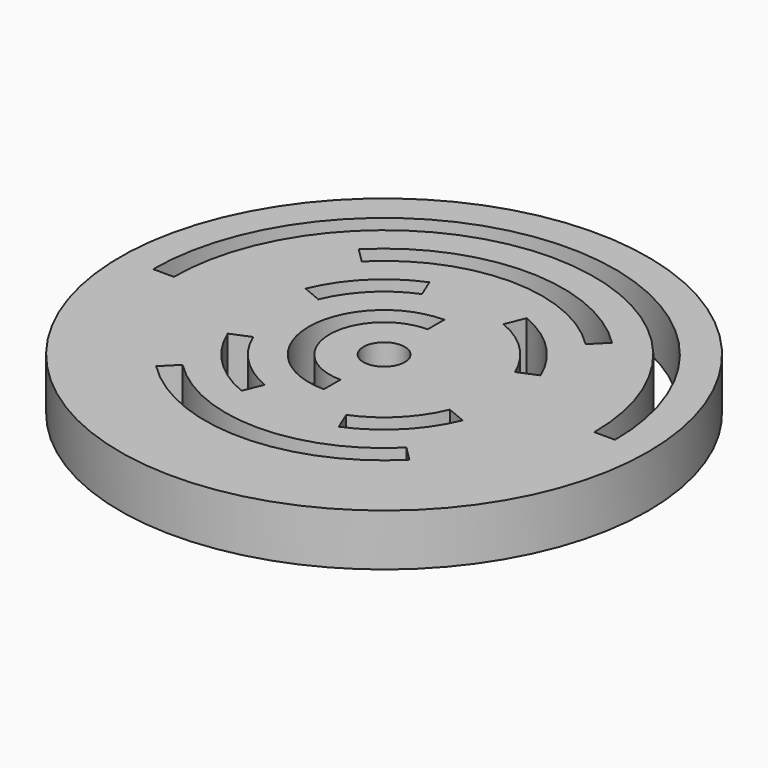
from build123d import *

# Parameters (mm, degrees)
SKETCH_R   = 25.426446
SKETCH_R_2 = 1.991345
PAD_DEPTH  = 5


with BuildPart() as part:
    # Sketch → Pad (new body)
    with BuildSketch(Plane.XY):
        Circle(SKETCH_R)
        Circle(SKETCH_R_2, mode=Mode.SUBTRACT)
        with BuildLine():
            Line((-22.250395, 0), (-20.250395, 0))
            ThreePointArc((20.250395, 0), (0, 20.250395), (-20.250395, 0))
            Line((20.250395, 0), (22.250395, 0))
            ThreePointArc((22.250395, 0), (0, 22.250395), (-22.250395, 0))
        make_face(mode=Mode.SUBTRACT)
        with BuildLine():
            ThreePointArc((12.197871, 12.197871), (0, 17.250395), (-12.197871, 12.197871))
            Line((-12.197871, 12.197871), (-10.783657, 10.783657))
            ThreePointArc((10.783657, 10.783657), (0, 15.250395), (-10.783657, 10.783657))
            Line((10.783657, 10.783657), (12.197871, 12.197871))
        make_face(mode=Mode.SUBTRACT)
        with BuildLine():
            Line((10.783657, -10.783657), (12.197871, -12.197871))
            ThreePointArc((-12.197871, -12.197871), (0, -17.250395), (12.197871, -12.197871))
            Line((-12.197871, -12.197871), (-10.783657, -10.783657))
            ThreePointArc((-10.783657, -10.783657), (0, -15.250395), (10.783657, -10.783657))
        make_face(mode=Mode.SUBTRACT)
        with BuildLine():
            ThreePointArc((-4.688023, 11.317889), (-8.662337, 8.662337), (-11.317889, 4.688023))
            Line((-11.317889, 4.688023), (-9.47013, 3.922656))
            ThreePointArc((-3.922656, 9.47013), (-7.248124, 7.248124), (-9.47013, 3.922656))
            Line((-4.688023, 11.317889), (-3.922656, 9.47013))
        make_face(mode=Mode.SUBTRACT)
        with BuildLine():
            ThreePointArc((11.317889, 4.688023), (8.662337, 8.662337), (4.688023, 11.317889))
            Line((4.688023, 11.317889), (3.922656, 9.47013))
            ThreePointArc((9.47013, 3.922656), (7.248124, 7.248124), (3.922656, 9.47013))
            Line((11.317889, 4.688023), (9.47013, 3.922656))
        make_face(mode=Mode.SUBTRACT)
        with BuildLine():
            ThreePointArc((-11.317889, -4.688023), (-8.662337, -8.662337), (-4.688023, -11.317889))
            Line((-4.688023, -11.317889), (-3.922656, -9.47013))
            ThreePointArc((-9.47013, -3.922656), (-7.248124, -7.248124), (-3.922656, -9.47013))
            Line((-11.317889, -4.688023), (-9.47013, -3.922656))
        make_face(mode=Mode.SUBTRACT)
        with BuildLine():
            ThreePointArc((3.922656, -9.47013), (7.248124, -7.248124), (9.47013, -3.922656))
            Line((11.317889, -4.688023), (9.47013, -3.922656))
            ThreePointArc((4.688023, -11.317889), (8.662337, -8.662337), (11.317889, -4.688023))
            Line((4.688023, -11.317889), (3.922656, -9.47013))
        make_face(mode=Mode.SUBTRACT)
        with BuildLine():
            ThreePointArc((0, 7.250395), (-7.250395, 0), (0, -7.250395))
            Line((0, -5.250395), (0, -7.250395))
            ThreePointArc((0, 5.250395), (-5.250395, 0), (0, -5.250395))
            Line((0, 7.250395), (0, 5.250395))
        make_face(mode=Mode.SUBTRACT)
    extrude(amount=PAD_DEPTH)


solid = part.part
